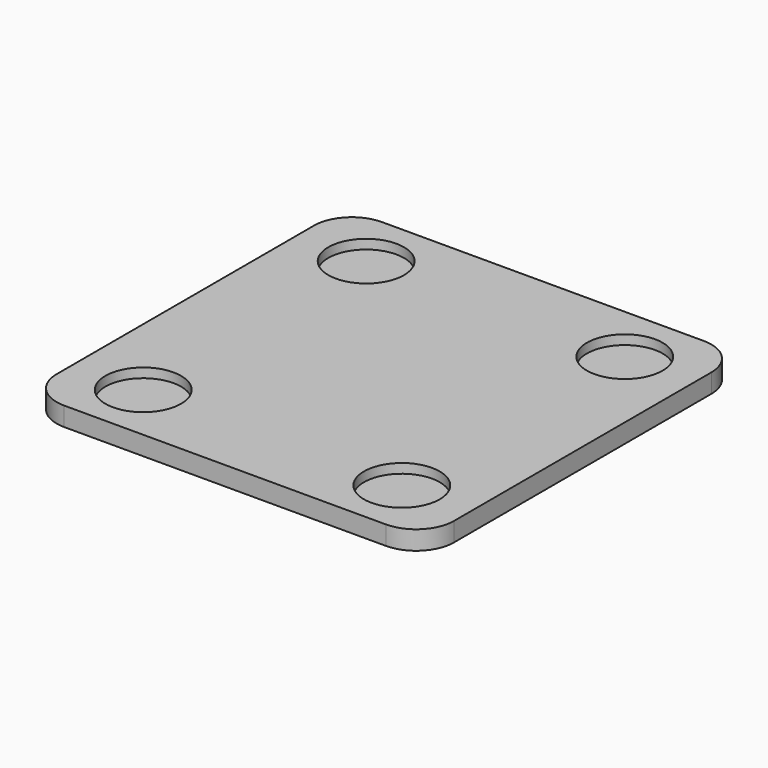
from build123d import *

# Parameters (mm, degrees)
F1_DEPTH = 1.5875
F2_R     = 3.175
F3_DEPTH = 0.79375


with BuildPart() as f1:
    # F0 (on Top) → F1 (new body)
    with BuildSketch(Plane.XY):
        with BuildLine():
            Line((-13.49375, -16.66875), (13.49375, -16.66875))
            ThreePointArc((13.49375, -16.66875), (15.738814, -15.738814), (16.66875, -13.49375))
            Line((16.66875, -13.49375), (16.66875, 13.49375))
            ThreePointArc((16.66875, 13.49375), (15.738814, 15.738814), (13.49375, 16.66875))
            Line((13.49375, 16.66875), (-13.49375, 16.66875))
            ThreePointArc((-13.49375, 16.66875), (-15.738814, 15.738814), (-16.66875, 13.49375))
            Line((-16.66875, 13.49375), (-16.66875, -13.49375))
            ThreePointArc((-16.66875, -13.49375), (-15.738814, -15.738814), (-13.49375, -16.66875))
        make_face()
    extrude(amount=F1_DEPTH)

    # F2 (on face) → F3 (cut)
    with BuildSketch(Plane.XY.offset(1.5875)):
        with Locations((-10.84834, 11.68908)):
            Circle(F2_R)
        with Locations((10.84834, 11.68908)):
            Circle(F2_R)
        with Locations((10.84834, -11.68908)):
            Circle(F2_R)
        with Locations((-10.84834, -11.68908)):
            Circle(F2_R)
    extrude(amount=-F3_DEPTH, mode=Mode.SUBTRACT)


solid = f1.part
